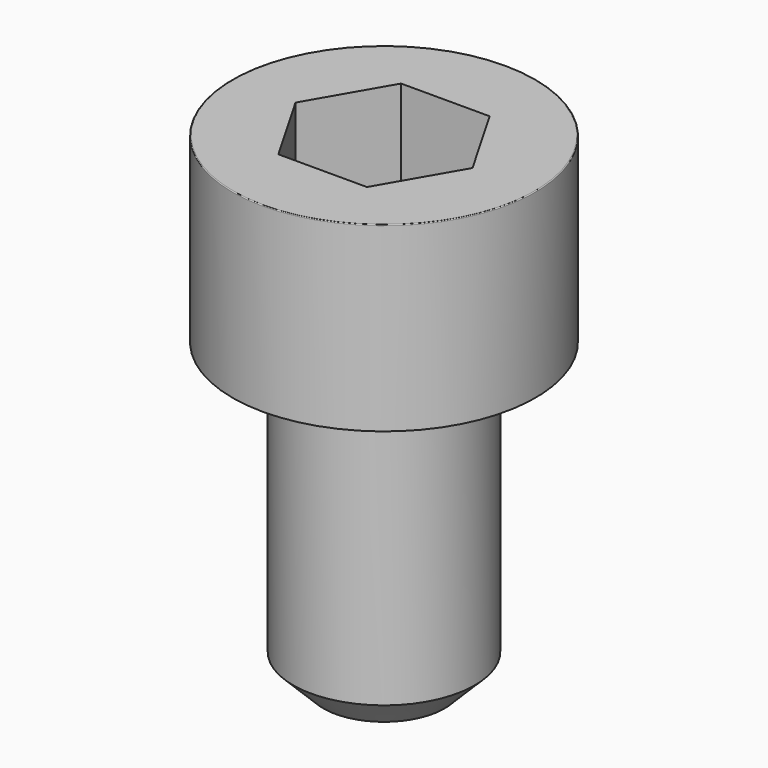
from build123d import *

# Parameters (mm, degrees)
POCKET_DEPTH = 5.06


with BuildPart() as part:
    # Sketch → Revolve (revolve)
    with BuildSketch(Plane.YZ):
        with BuildLine():
            Line((2.999, 0), (5, 0))
            Line((5, 0), (5, 5.97229))
            ThreePointArc((5, 5.97229), (4.991884, 5.991884), (4.97229, 6))
            Line((4.97229, 6), (0, 6))
            Line((0, -10), (0, 6))
            Line((2, -10), (0, -10))
            Line((3, -9), (2, -10))
            Line((3, -0.2), (3, -9))
            Line((2.999, 0), (3, -0.2))
        make_face()
    revolve(axis=Axis((0, 0, 0), (0, 0, 1)))

    # Sketch001 → Pocket (cut)
    with BuildSketch(Plane.XY.offset(6)):
        Polygon((2.921392, 0), (1.460696, 2.53), (-1.460696, 2.53), (-2.921392, 0), (-1.460696, -2.53), (1.460696, -2.53), align=None)
    extrude(amount=-POCKET_DEPTH, mode=Mode.SUBTRACT)


solid = part.part
